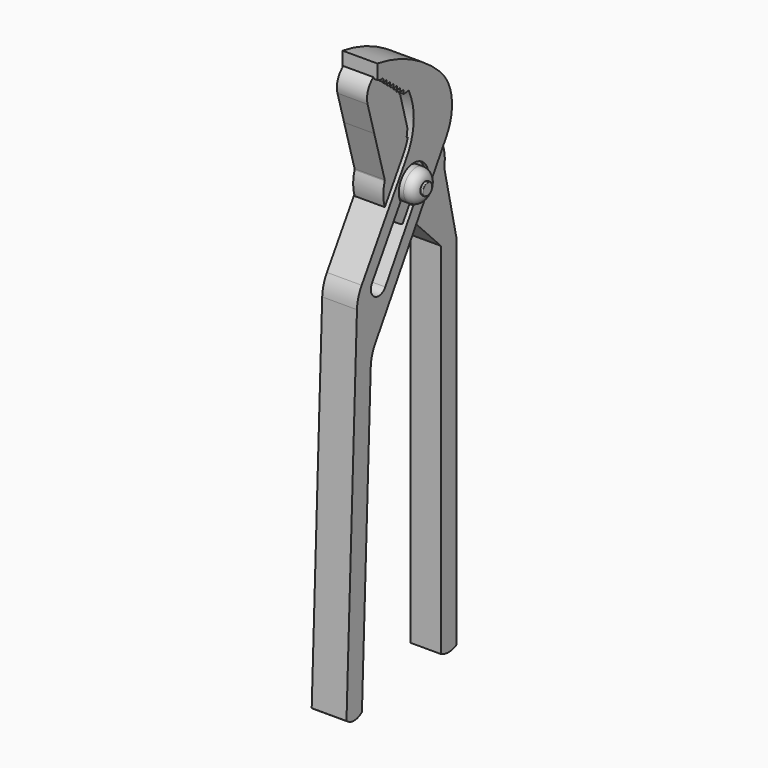
from build123d import *

# Parameters (mm, degrees)
F1_DEPTH  = 11.43
F6_R      = 3.175
F7_DEPTH  = 10.16
F8_R      = 3.175
F9_DEPTH  = 9.906
F11_DEPTH = 9.906
F12_R     = 5.08
F13_DEPTH = 5.08
F14_R     = 3.048
F15_DEPTH = 0.762
F16_R     = 0.2452840979


with BuildPart() as f1:
    # F0 (on Right) → F1 (new body)
    with BuildSketch(Plane.YZ):
        with BuildLine():
            ThreePointArc((1.808595832, 2.8825478496), (0.4281900666, -0.1317724516), (-0.1250160109, -3.4006575814))
            Line((-0.1250160109, -3.4006575814), (-4.4353720869, -120.65))
            ThreePointArc((-4.4353720869, -120.65), (-1.2603720869, -121.8258858858), (1.9146279131, -120.65))
            Line((1.9146279131, -120.65), (5.527929309, -22.3617831662))
            ThreePointArc((5.527929309, -22.3617831662), (6.0569470704, -19.1724219457), (7.3741110204, -16.2199714525))
            Line((7.3741110204, -16.2199714525), (36.603850926, 31.75))
            ThreePointArc((36.603850926, 31.75), (38.8029043758, 42.0761368084), (34.0682826936, 51.5126772225))
            ThreePointArc((34.0682826936, 51.5126772225), (22.1400332018, 59.956373967), (8.228125982, 64.4327551126))
            Line((8.228125982, 64.4327551126), (8.228125982, 59.6521943808))
            Line((8.228125982, 59.6521943808), (9.3876826542, 59.1341902071))
            Line((9.3876826542, 59.1341902071), (10.6398296168, 59.2594340467))
            Line((10.6398296168, 59.2594340467), (10.7666725923, 57.9912994469))
            Line((10.7666725923, 57.9912994469), (12.0331375857, 58.1179754228))
            Line((12.0331375857, 58.1179754228), (12.1595239109, 56.8544062633))
            Line((12.1595239109, 56.8544062633), (13.4216815785, 56.9806514064))
            Line((13.4216815785, 56.9806514064), (13.5477334627, 55.7204258778))
            Line((13.5477334627, 55.7204258778), (14.8180481351, 55.8474869113))
            Line((14.8180481351, 55.8474869113), (14.9442138288, 54.5861235532))
            Line((14.9442138288, 54.5861235532), (16.2080459572, 54.7125361814))
            Line((16.2080459572, 54.7125361814), (16.3354485129, 53.4388070809))
            Line((16.3354485129, 53.4388070809), (17.5919183052, 53.5644833041))
            Line((17.5919183052, 53.5644833041), (17.7175639634, 52.3083190919))
            Line((17.7175639634, 52.3083190919), (18.9866078885, 52.435253021))
            Line((18.9866078885, 52.435253021), (19.1136043949, 51.1655834698))
            Line((19.1136043949, 51.1655834698), (21.2800921439, 51.3822826692))
            Line((21.2800921439, 51.3822826692), (21.3335351809, 50.8479766572))
            ThreePointArc((21.3335351809, 50.8479766572), (23.1729431812, 41.4216984244), (20.2493146062, 32.27344509))
            Line((20.2493146062, 32.27344509), (1.808595832, 2.8825478496))
        make_face()
        with BuildLine():
            ThreePointArc((29.3172817582, 23.4761205836), (27.4649750181, 19.0833342408), (23.0265777586, 17.3431498024))
            Line((23.0265777586, 17.3431498024), (11.5092526019, -1.5583443868))
            ThreePointArc((11.5092526019, -1.5583443868), (7.0165322614, -2.5687208575), (6.1588478275, 1.955632586))
            Line((6.1588478275, 1.955632586), (17.7731493037, 20.581588315))
            ThreePointArc((17.7731493037, 20.581588315), (21.6902669039, 29.4268623689), (29.3172817582, 23.4761205836))
        make_face(mode=Mode.SUBTRACT)
    extrude(amount=F1_DEPTH)

    # F4 (on offset) → F5 (revolve)
    with BuildSketch(Plane.XY.offset(23.4696)):
        with BuildLine():
            Line((-3.175, 23.1823334743), (0, 23.1823334743))
            Line((0, 23.1823334743), (0, 29.3172817582))
            Line((0, 29.3172817582), (-1.190625, 29.3172817582))
            ThreePointArc((-1.190625, 29.3172817582), (-2.8636931076, 26.4700413319), (-3.175, 23.1823334743))
        make_face()
    revolve(axis=Axis((-1.5875, 23.1823334743, 23.4696), (-1, 0, 0)))

    # F6 (on face) → F7 (join)
    with BuildSketch(Plane.YZ):
        with Locations((23.1823334743, 23.4761205836)):
            Circle(F6_R)
    extrude(amount=F7_DEPTH)

    # F8 (on face) → F9 (join)
    with BuildSketch(Plane.YZ.offset(10.16)):
        with BuildLine():
            Line((5.8383802624, 53.1845860481), (8.5569023678, 43.6245528647))
            Line((8.5569023678, 43.6245528647), (19.2021522671, 50.5441427231))
            ThreePointArc((19.2021522671, 50.5441427231), (18.833514738, 51.1778422347), (18.9378336072, 51.9035048783))
            Line((18.9378336072, 51.9035048783), (17.6671575755, 51.9035048783))
            Line((17.6671575755, 51.9035048783), (17.6671575755, 53.1818643212))
            Line((17.6671575755, 53.1818643212), (16.4147056639, 53.0424229801))
            Line((16.4147056639, 53.0424229801), (16.4147056639, 54.3166287243))
            Line((16.4147056639, 54.3166287243), (15.1522411034, 54.1771911085))
            Line((15.1522411034, 54.1771911085), (15.1522411034, 55.4455332458))
            Line((15.1522411034, 55.4455332458), (13.9005016536, 55.2843436599))
            Line((13.9005016536, 55.2843436599), (13.9005016536, 56.554403156))
            Line((13.9005016536, 56.554403156), (12.630267835, 56.3866309822))
            Line((12.630267835, 56.3866309822), (12.630267835, 57.6525181532))
            Line((12.630267835, 57.6525181532), (11.3593949992, 57.6525181532))
            Line((11.3593949992, 57.6525181532), (11.3593949992, 58.9301658507))
            Line((11.3593949992, 58.9301658507), (10.1137412712, 58.6664974689))
            Line((10.1137412712, 58.6664974689), (9.8529523239, 59.8985478282))
            Line((9.8529523239, 59.8985478282), (8.7007265538, 60.428455472))
            Line((8.7007265538, 60.428455472), (8.1156802767, 59.9859555211))
            ThreePointArc((8.1156802767, 59.9859555211), (5.924801784, 56.9375880575), (5.8383802624, 53.1845860481))
        make_face()
        with BuildLine():
            ThreePointArc((12.8667323688, 28.4684804739), (12.8860627518, 28.323043042), (12.863023147, 28.1781469174))
            ThreePointArc((12.863023147, 28.1781469174), (33.3495457477, 15.0099174717), (22.4907219609, 36.8086747981))
            ThreePointArc((22.4907219609, 36.8086747981), (22.0437268007, 36.9383607666), (21.8899565158, 37.3776531786))
            Line((21.8899565158, 37.3776531786), (22.2015511245, 39.6025590599))
            Line((22.2015511245, 39.6025590599), (19.2021522671, 50.5441427231))
            Line((19.2021522671, 50.5441427231), (8.5569023678, 43.6245528647))
            Line((8.5569023678, 43.6245528647), (12.8667323688, 28.4684804739))
        make_face()
        with Locations((23.1823334743, 23.4761205836)):
            Circle(F8_R, mode=Mode.SUBTRACT)
    extrude(amount=-F9_DEPTH)

    # F10 (on face) → F11 (join)
    with BuildSketch(Plane(origin=(0.254, 0, 0), x_dir=(0, -1, 0), z_dir=(-1, 0, 0))):
        with BuildLine():
            ThreePointArc((-24.4436016771, 11.7933800914), (-32.7707477792, 14.5215583601), (-37.318449831, 22.0117335864))
            Line((-37.318449831, 22.0117335864), (-42.2674339283, 0))
            Line((-42.2674339283, 0), (-42.2674339283, -118.0961430073))
            ThreePointArc((-42.2674339283, -118.0961430073), (-39.0924339283, -118.8986089008), (-35.9174339283, -118.0961430073))
            Line((-35.9174339283, -118.0961430073), (-35.9174339283, 0))
            Line((-35.9174339283, 0), (-24.4436016771, 11.7933800914))
        make_face()
    extrude(amount=-F11_DEPTH)

    # F12 (on face) → F13 (join)
    with BuildSketch(Plane.YZ.offset(10.16)):
        with Locations((23.1823334743, 23.4761205836)):
            Circle(F12_R)
    extrude(amount=F13_DEPTH)

    # F14
    f14_edges = [f1.edges().sort_by_distance(p)[0] for p in [
        (15.24, 18.102333, 23.476121),
    ]]
    fillet(f14_edges, radius=F14_R)

    # F15 (add): a face of the model
    f15_faces = [f1.faces().sort_by_distance(p)[0] for p in [
        (15.24, 23.1823334743, 23.4761205836),
    ]]
    extrude(f15_faces, amount=F15_DEPTH)

    # F16
    f16_edges = [f1.edges().sort_by_distance(p)[0] for p in [
        (16.002, 21.150333, 23.476121),
    ]]
    fillet(f16_edges, radius=F16_R)


solid = f1.part
